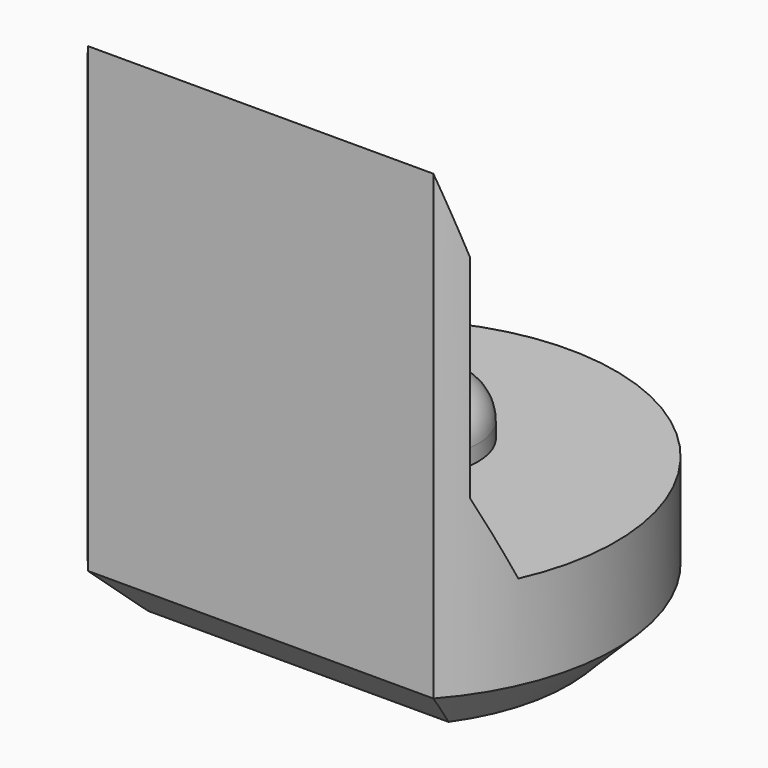
from build123d import *

# Parameters (mm, degrees)
PAD003_DEPTH         = 6.5
POCKET004_DEPTH      = 2.951
POCKET004_DEPTH_BACK = 2.951
SKETCH013_R          = 0.8
PAD006_DEPTH         = 0.7
FILLET_R             = 0.5
CHAMFER004_SIZE      = 0.6


with BuildPart() as part:
    # Sketch004 → Pad003 (new body)
    with BuildSketch(Plane.XY):
        with BuildLine():
            ThreePointArc((2.2, -1.9653244007), (0, 2.95), (-2.2, -1.9653244007))
            Line((-2.2, -1.9653244007), (2.2, -1.9653244007))
        make_face()
    extrude(amount=PAD003_DEPTH)

    # Sketch014 → Pocket004 (cut, two sides)
    with BuildSketch(Plane.YZ) as pocket004_sk:
        Polygon((-1.97, 6.5), (-1.67, 5.5), (-1.67, 2.8), (-1.22, 1.8), (4, 1.8), (4, 6.5), align=None)
    extrude(amount=-POCKET004_DEPTH, mode=Mode.SUBTRACT)
    extrude(pocket004_sk.sketch, amount=POCKET004_DEPTH_BACK, mode=Mode.SUBTRACT)

    # Sketch013 (on Face7 of Pocket004) → Pad006 (join)
    with BuildSketch(Plane.XY.offset(1.8)):
        with Locations((0, 0.5)):
            Circle(SKETCH013_R)
    extrude(amount=PAD006_DEPTH)

    # Fillet
    fillet_edges = [part.edges().sort_by_distance(p)[0] for p in [
        (-0.8, 0.5, 2.5),
    ]]
    fillet(fillet_edges, radius=FILLET_R)

    # Chamfer004
    chamfer004_edges = [part.edges().sort_by_distance(p)[0] for p in [
        (0, 2.95, 0),
        (0, -1.965324, 0),
    ]]
    chamfer(chamfer004_edges, length=CHAMFER004_SIZE)


with BuildPart() as part_1:
    # Body023 placement: moved
    add(part.part.moved(Location((0, 24, 0))))


solid = part_1.part
